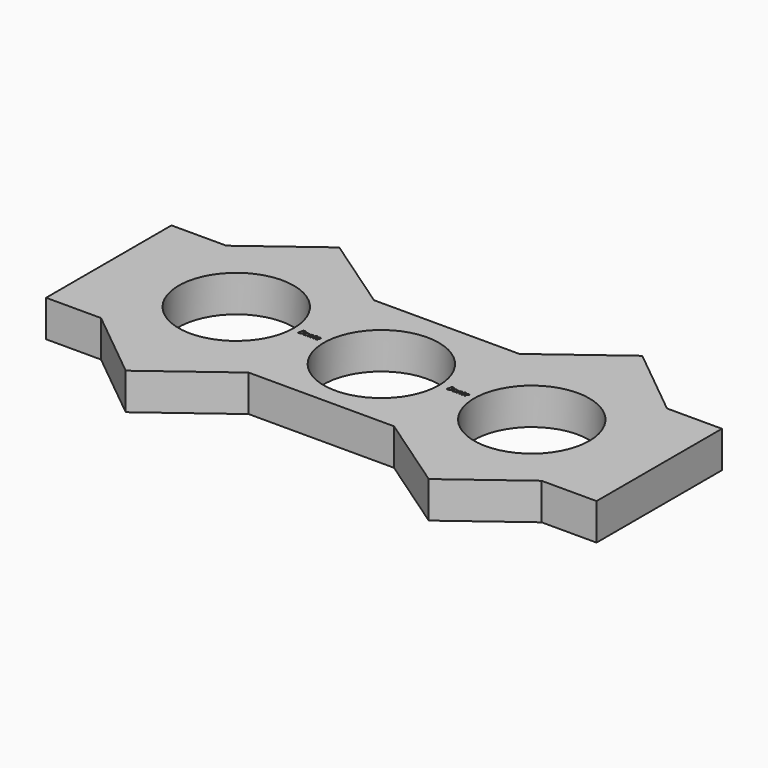
from build123d import *

# Parameters (mm, degrees)
F0_R     = 11.025
F1_DEPTH = 7


with BuildPart() as f1:
    # F0 (on Top) → F1 (new body)
    with BuildSketch(Plane.XY):
        Polygon((-64.4728094339, 23.716603741), (-74.9928504229, 23.716603741), (-74.9928504229, -6.283396259), (-64.4728094339, -6.283396259), (-50.9470440447, -17.2829199582), (-36.2189896405, -6.283396259), (-23.4113000333, -6.283396259), (-21.1903639138, -6.283396259), (-8.3826743066, -6.283396259), (6.3453800976, -16.3850005079), (19.8711454868, -6.283396259), (30.3911864758, -6.283396259), (30.3911864758, 23.716603741), (19.8711454868, 23.716603741), (6.3453800976, 34.7161274403), (-8.3826743066, 23.716603741), (-21.1903639138, 23.716603741), (-23.4113000333, 23.716603741), (-36.2189896405, 23.716603741), (-50.9470440447, 33.81820799), align=None)
        with Locations((-22.4508401006, 8.2657448947)):
            Circle(F0_R, mode=Mode.SUBTRACT)
        with BuildLine():
            add(Edge.make_bspline(
                [(-9.00669644, 8.9726211978), (-8.9013281797, 8.8627891762), (-8.9013281797, 8.6529923948)],
                knots=[0, 0, 0, 1, 1, 1], degree=2))
            add(Edge.make_bspline(
                [(-8.9013281797, 8.6529923948), (-8.9013281797, 8.4612855935), (-8.9785042634, 8.31445134)],
                knots=[0, 0, 0, 1, 1, 1], degree=2))
            add(Edge.make_bspline(
                [(-8.9785042634, 8.31445134), (-9.055680347, 8.1676170865), (-9.1987556436, 8.0883265896)],
                knots=[0, 0, 0, 1, 1, 1], degree=2))
            add(Edge.make_bspline(
                [(-9.1987556436, 8.0883265896), (-9.3418309402, 8.0090360927), (-9.534242546, 8.0090360927)],
                knots=[0, 0, 0, 1, 1, 1], degree=2))
            Line((-9.534242546, 8.0090360927), (-9.7926708321, 8.0090360927))
            Line((-9.7926708321, 8.0090360927), (-9.5659587447, 9.0824532195))
            Line((-9.5659587447, 9.0824532195), (-9.3148134376, 9.0824532195))
            add(Edge.make_bspline(
                [(-9.3148134376, 9.0824532195), (-9.1120647003, 9.0824532195), (-9.00669644, 8.9726211978)],
                knots=[0, 0, 0, 1, 1, 1], degree=2))
        make_face(mode=Mode.SUBTRACT)
        with BuildLine():
            add(Edge.make_bspline(
                [(-8.5863980728, 8.7542492961), (-8.4946560312, 8.8284886946), (-8.3851764118, 8.8284886946)],
                knots=[0, 0, 0, 1, 1, 1], degree=2))
            add(Edge.make_bspline(
                [(-8.3851764118, 8.8284886946), (-8.3177501226, 8.8284886946), (-8.2648897914, 8.7920737998)],
                knots=[0, 0, 0, 1, 1, 1], degree=2))
            add(Edge.make_bspline(
                [(-8.2648897914, 8.7920737998), (-8.2120294601, 8.7556589049), (-8.1826626094, 8.6875278113)],
                knots=[0, 0, 0, 1, 1, 1], degree=2))
            Line((-8.1826626094, 8.6875278113), (-8.1744398912, 8.6875278113))
            Line((-8.1744398912, 8.6875278113), (-8.1253385168, 8.8136878019))
            Line((-8.1253385168, 8.8136878019), (-8.032069399, 8.8136878019))
            Line((-8.032069399, 8.8136878019), (-8.2031019375, 8.0090360927))
            Line((-8.2031019375, 8.0090360927), (-8.3008348166, 8.0090360927))
            Line((-8.3008348166, 8.0090360927), (-8.2815701626, 8.1624485208))
            Line((-8.2815701626, 8.1624485208), (-8.2874435327, 8.1624485208))
            add(Edge.make_bspline(
                [(-8.2874435327, 8.1624485208), (-8.4190070238, 7.9942352), (-8.5644316685, 7.9942352)],
                knots=[0, 0, 0, 1, 1, 1], degree=2))
            add(Edge.make_bspline(
                [(-8.5644316685, 7.9942352), (-8.6663933741, 7.9942352), (-8.7244222711, 8.0669475223)],
                knots=[0, 0, 0, 1, 1, 1], degree=2))
            add(Edge.make_bspline(
                [(-8.7244222711, 8.0669475223), (-8.7824511681, 8.1396598446), (-8.7824511681, 8.26605477)],
                knots=[0, 0, 0, 1, 1, 1], degree=2))
            add(Edge.make_bspline(
                [(-8.7824511681, 8.26605477), (-8.7824511681, 8.4187623937), (-8.7302956412, 8.5493861456)],
                knots=[0, 0, 0, 1, 1, 1], degree=2))
            add(Edge.make_bspline(
                [(-8.7302956412, 8.5493861456), (-8.6781401144, 8.6800098975), (-8.5863980728, 8.7542492961)],
                knots=[0, 0, 0, 1, 1, 1], degree=2))
        make_face(mode=Mode.SUBTRACT)
        with BuildLine():
            Line((-7.3448850927, 8.0090360927), (-7.4696354744, 8.0090360927))
            Line((-7.4696354744, 8.0090360927), (-7.3608606595, 8.5172000772))
            add(Edge.make_bspline(
                [(-7.3608606595, 8.5172000772), (-7.3462947015, 8.593553889), (-7.3462947015, 8.6229207397)],
                knots=[0, 0, 0, 1, 1, 1], degree=2))
            add(Edge.make_bspline(
                [(-7.3462947015, 8.6229207397), (-7.3462947015, 8.6689679616), (-7.3723724649, 8.6969252035)],
                knots=[0, 0, 0, 1, 1, 1], degree=2))
            add(Edge.make_bspline(
                [(-7.3723724649, 8.6969252035), (-7.3984502283, 8.7248824454), (-7.4555393861, 8.7248824454)],
                knots=[0, 0, 0, 1, 1, 1], degree=2))
            add(Edge.make_bspline(
                [(-7.4555393861, 8.7248824454), (-7.5210861969, 8.7248824454), (-7.5831089855, 8.6808321693)],
                knots=[0, 0, 0, 1, 1, 1], degree=2))
            add(Edge.make_bspline(
                [(-7.5831089855, 8.6808321693), (-7.6451317742, 8.6367818933), (-7.6924711375, 8.5552595157)],
                knots=[0, 0, 0, 1, 1, 1], degree=2))
            add(Edge.make_bspline(
                [(-7.6924711375, 8.5552595157), (-7.7398105009, 8.4737371382), (-7.7640087858, 8.3576793442)],
                knots=[0, 0, 0, 1, 1, 1], degree=2))
            Line((-7.7640087858, 8.3576793442), (-7.8382481844, 8.0090360927))
            Line((-7.8382481844, 8.0090360927), (-7.9615889574, 8.0090360927))
            Line((-7.9615889574, 8.0090360927), (-7.7896166797, 8.8136878019))
            Line((-7.7896166797, 8.8136878019), (-7.687654974, 8.8136878019))
            Line((-7.687654974, 8.8136878019), (-7.7038654756, 8.6647391351))
            Line((-7.7038654756, 8.6647391351), (-7.6963475618, 8.6647391351))
            add(Edge.make_bspline(
                [(-7.6963475618, 8.6647391351), (-7.6258671202, 8.7542492961), (-7.560202842, 8.7913689953)],
                knots=[0, 0, 0, 1, 1, 1], degree=2))
            add(Edge.make_bspline(
                [(-7.560202842, 8.7913689953), (-7.4945385638, 8.8284886946), (-7.4240581222, 8.8284886946)],
                knots=[0, 0, 0, 1, 1, 1], degree=2))
            add(Edge.make_bspline(
                [(-7.4240581222, 8.8284886946), (-7.3307890043, 8.8284886946), (-7.2768714665, 8.7773903744)],
                knots=[0, 0, 0, 1, 1, 1], degree=2))
            add(Edge.make_bspline(
                [(-7.2768714665, 8.7773903744), (-7.2229539286, 8.7262920542), (-7.2229539286, 8.63466748)],
                knots=[0, 0, 0, 1, 1, 1], degree=2))
            add(Edge.make_bspline(
                [(-7.2229539286, 8.63466748), (-7.2229539286, 8.576638583), (-7.2398692346, 8.5023991845)],
                knots=[0, 0, 0, 1, 1, 1], degree=2))
            Line((-7.2398692346, 8.5023991845), (-7.3448850927, 8.0090360927))
        make_face(mode=Mode.SUBTRACT)
        with BuildLine():
            add(Edge.make_bspline(
                [(-6.906379278, 8.1169886359), (-6.8851176781, 8.0950222316), (-6.8470582396, 8.0950222316)],
                knots=[0, 0, 0, 1, 1, 1], degree=2))
            add(Edge.make_bspline(
                [(-6.8470582396, 8.0950222316), (-6.8066494531, 8.0950222316), (-6.7413375771, 8.1140519508)],
                knots=[0, 0, 0, 1, 1, 1], degree=2))
            Line((-6.7413375771, 8.1140519508), (-6.7413375771, 8.0193732242))
            add(Edge.make_bspline(
                [(-6.7413375771, 8.0193732242), (-6.7662406665, 8.0090360927), (-6.8028904962, 8.0016356463)],
                knots=[0, 0, 0, 1, 1, 1], degree=2))
            add(Edge.make_bspline(
                [(-6.8028904962, 8.0016356463), (-6.8395403258, 7.9942352), (-6.8616241976, 7.9942352)],
                knots=[0, 0, 0, 1, 1, 1], degree=2))
            add(Edge.make_bspline(
                [(-6.8616241976, 7.9942352), (-6.9534837066, 7.9942352), (-7.0022326787, 8.0379330738)],
                knots=[0, 0, 0, 1, 1, 1], degree=2))
            add(Edge.make_bspline(
                [(-7.0022326787, 8.0379330738), (-7.0509816509, 8.0816309476), (-7.0509816509, 8.1683218909)],
                knots=[0, 0, 0, 1, 1, 1], degree=2))
            add(Edge.make_bspline(
                [(-7.0509816509, 8.1683218909), (-7.0509816509, 8.2167184609), (-7.0378253018, 8.2785063147)],
                knots=[0, 0, 0, 1, 1, 1], degree=2))
            Line((-7.0378253018, 8.2785063147), (-6.9445561839, 8.720418684))
            Line((-6.9445561839, 8.720418684), (-7.0709511094, 8.720418684))
            Line((-7.0709511094, 8.720418684), (-7.0606139779, 8.7739838197))
            Line((-7.0606139779, 8.7739838197), (-6.9248216603, 8.8313079123))
            Line((-6.9248216603, 8.8313079123), (-6.8329621513, 8.9988164287))
            Line((-6.8329621513, 8.9988164287), (-6.7610721008, 8.9988164287))
            Line((-6.7610721008, 8.9988164287), (-6.8014808873, 8.8136878019))
            Line((-6.8014808873, 8.8136878019), (-6.6003766938, 8.8136878019))
            Line((-6.6003766938, 8.8136878019), (-6.619406413, 8.720418684))
            Line((-6.619406413, 8.720418684), (-6.8198058022, 8.720418684))
            Line((-6.8198058022, 8.720418684), (-6.9144845288, 8.2770967059))
            add(Edge.make_bspline(
                [(-6.9144845288, 8.2770967059), (-6.9276408779, 8.2131944388), (-6.9276408779, 8.1800686312)],
                knots=[0, 0, 0, 1, 1, 1], degree=2))
            add(Edge.make_bspline(
                [(-6.9276408779, 8.1800686312), (-6.9276408779, 8.1389550402), (-6.906379278, 8.1169886359)],
                knots=[0, 0, 0, 1, 1, 1], degree=2))
        make_face(mode=Mode.SUBTRACT)
        with BuildLine():
            add(Edge.make_bspline(
                [(-6.1716206735, 8.0071566143), (-6.2244810048, 7.9942352), (-6.2881483371, 7.9942352)],
                knots=[0, 0, 0, 1, 1, 1], degree=2))
            add(Edge.make_bspline(
                [(-6.2881483371, 7.9942352), (-6.4232358503, 7.9942352), (-6.500411934, 8.0743479687)],
                knots=[0, 0, 0, 1, 1, 1], degree=2))
            add(Edge.make_bspline(
                [(-6.500411934, 8.0743479687), (-6.5775880176, 8.1544607374), (-6.5775880176, 8.2961264251)],
                knots=[0, 0, 0, 1, 1, 1], degree=2))
            add(Edge.make_bspline(
                [(-6.5775880176, 8.2961264251), (-6.5775880176, 8.434033156), (-6.5228482079, 8.5607804836)],
                knots=[0, 0, 0, 1, 1, 1], degree=2))
            add(Edge.make_bspline(
                [(-6.5228482079, 8.5607804836), (-6.4681083982, 8.6875278113), (-6.3777759655, 8.7580082529)],
                knots=[0, 0, 0, 1, 1, 1], degree=2))
            add(Edge.make_bspline(
                [(-6.3777759655, 8.7580082529), (-6.2874435327, 8.8284886946), (-6.1789036525, 8.8284886946)],
                knots=[0, 0, 0, 1, 1, 1], degree=2))
            add(Edge.make_bspline(
                [(-6.1789036525, 8.8284886946), (-6.0666048155, 8.8284886946), (-6.0099855273, 8.7796222551)],
                knots=[0, 0, 0, 1, 1, 1], degree=2))
            add(Edge.make_bspline(
                [(-6.0099855273, 8.7796222551), (-5.9533662392, 8.7307558155), (-5.9533662392, 8.6433600678)],
                knots=[0, 0, 0, 1, 1, 1], degree=2))
            add(Edge.make_bspline(
                [(-5.9533662392, 8.6433600678), (-5.9533662392, 8.5113267071), (-6.0752974033, 8.4360301019)],
                knots=[0, 0, 0, 1, 1, 1], degree=2))
            add(Edge.make_bspline(
                [(-6.0752974033, 8.4360301019), (-6.1972285674, 8.3607334967), (-6.4241755896, 8.3607334967)],
                knots=[0, 0, 0, 1, 1, 1], degree=2))
            Line((-6.4241755896, 8.3607334967), (-6.4483738745, 8.3607334967))
            Line((-6.4483738745, 8.3607334967), (-6.4511930922, 8.3019997953))
            add(Edge.make_bspline(
                [(-6.4511930922, 8.3019997953), (-6.4511930922, 8.2059114598), (-6.4060856095, 8.1518764545)],
                knots=[0, 0, 0, 1, 1, 1], degree=2))
            add(Edge.make_bspline(
                [(-6.4060856095, 8.1518764545), (-6.3609781269, 8.0978414492), (-6.2662994002, 8.0978414492)],
                knots=[0, 0, 0, 1, 1, 1], degree=2))
            add(Edge.make_bspline(
                [(-6.2662994002, 8.0978414492), (-6.2200172435, 8.0978414492), (-6.1711508039, 8.1111152657)],
                knots=[0, 0, 0, 1, 1, 1], degree=2))
            add(Edge.make_bspline(
                [(-6.1711508039, 8.1111152657), (-6.1222843644, 8.1243890823), (-6.0496895094, 8.1596293031)],
                knots=[0, 0, 0, 1, 1, 1], degree=2))
            Line((-6.0496895094, 8.1596293031), (-6.0496895094, 8.0522640969))
            add(Edge.make_bspline(
                [(-6.0496895094, 8.0522640969), (-6.1187603423, 8.0200780286), (-6.1716206735, 8.0071566143)],
                knots=[0, 0, 0, 1, 1, 1], degree=2))
        make_face(mode=Mode.SUBTRACT)
        with Locations((6.3453800976, 8.2657448947)):
            Circle(F0_R, mode=Mode.SUBTRACT)
        with Locations((-50.9470440447, 9.1674625874)):
            Circle(F0_R, mode=Mode.SUBTRACT)
        with BuildLine():
            add(Edge.make_bspline(
                [(-37.7485013229, 9.3613235544), (-37.6431330626, 9.2514915328), (-37.6431330626, 9.0416947514)],
                knots=[0, 0, 0, 1, 1, 1], degree=2))
            add(Edge.make_bspline(
                [(-37.6431330626, 9.0416947514), (-37.6431330626, 8.84998795), (-37.7203091462, 8.7031536965)],
                knots=[0, 0, 0, 1, 1, 1], degree=2))
            add(Edge.make_bspline(
                [(-37.7203091462, 8.7031536965), (-37.7974852299, 8.556319443), (-37.9405605265, 8.4770289462)],
                knots=[0, 0, 0, 1, 1, 1], degree=2))
            add(Edge.make_bspline(
                [(-37.9405605265, 8.4770289462), (-38.0836358231, 8.3977384493), (-38.2760474289, 8.3977384493)],
                knots=[0, 0, 0, 1, 1, 1], degree=2))
            Line((-38.2760474289, 8.3977384493), (-38.534475715, 8.3977384493))
            Line((-38.534475715, 8.3977384493), (-38.3077636276, 9.471155576))
            Line((-38.3077636276, 9.471155576), (-38.0566183204, 9.471155576))
            add(Edge.make_bspline(
                [(-38.0566183204, 9.471155576), (-37.8538695832, 9.471155576), (-37.7485013229, 9.3613235544)],
                knots=[0, 0, 0, 1, 1, 1], degree=2))
        make_face(mode=Mode.SUBTRACT)
        with BuildLine():
            add(Edge.make_bspline(
                [(-37.3282029557, 9.1429516526), (-37.2364609141, 9.2171910512), (-37.1269812947, 9.2171910512)],
                knots=[0, 0, 0, 1, 1, 1], degree=2))
            add(Edge.make_bspline(
                [(-37.1269812947, 9.2171910512), (-37.0595550055, 9.2171910512), (-37.0066946743, 9.1807761563)],
                knots=[0, 0, 0, 1, 1, 1], degree=2))
            add(Edge.make_bspline(
                [(-37.0066946743, 9.1807761563), (-36.953834343, 9.1443612614), (-36.9244674923, 9.0762301678)],
                knots=[0, 0, 0, 1, 1, 1], degree=2))
            Line((-36.9244674923, 9.0762301678), (-36.9162447741, 9.0762301678))
            Line((-36.9162447741, 9.0762301678), (-36.8671433997, 9.2023901584))
            Line((-36.8671433997, 9.2023901584), (-36.7738742819, 9.2023901584))
            Line((-36.7738742819, 9.2023901584), (-36.9449068204, 8.3977384493))
            Line((-36.9449068204, 8.3977384493), (-37.0426396995, 8.3977384493))
            Line((-37.0426396995, 8.3977384493), (-37.0233750455, 8.5511508773))
            Line((-37.0233750455, 8.5511508773), (-37.0292484156, 8.5511508773))
            add(Edge.make_bspline(
                [(-37.0292484156, 8.5511508773), (-37.1608119067, 8.3829375565), (-37.3062365514, 8.3829375565)],
                knots=[0, 0, 0, 1, 1, 1], degree=2))
            add(Edge.make_bspline(
                [(-37.3062365514, 8.3829375565), (-37.408198257, 8.3829375565), (-37.466227154, 8.4556498789)],
                knots=[0, 0, 0, 1, 1, 1], degree=2))
            add(Edge.make_bspline(
                [(-37.466227154, 8.4556498789), (-37.524256051, 8.5283622012), (-37.524256051, 8.6547571266)],
                knots=[0, 0, 0, 1, 1, 1], degree=2))
            add(Edge.make_bspline(
                [(-37.524256051, 8.6547571266), (-37.524256051, 8.8074647502), (-37.4721005241, 8.9380885021)],
                knots=[0, 0, 0, 1, 1, 1], degree=2))
            add(Edge.make_bspline(
                [(-37.4721005241, 8.9380885021), (-37.4199449973, 9.068712254), (-37.3282029557, 9.1429516526)],
                knots=[0, 0, 0, 1, 1, 1], degree=2))
        make_face(mode=Mode.SUBTRACT)
        with BuildLine():
            Line((-36.0866899756, 8.3977384493), (-36.2114403573, 8.3977384493))
            Line((-36.2114403573, 8.3977384493), (-36.1026655423, 8.9059024338))
            add(Edge.make_bspline(
                [(-36.1026655423, 8.9059024338), (-36.0880995844, 8.9822562456), (-36.0880995844, 9.0116230963)],
                knots=[0, 0, 0, 1, 1, 1], degree=2))
            add(Edge.make_bspline(
                [(-36.0880995844, 9.0116230963), (-36.0880995844, 9.0576703182), (-36.1141773478, 9.08562756)],
                knots=[0, 0, 0, 1, 1, 1], degree=2))
            add(Edge.make_bspline(
                [(-36.1141773478, 9.08562756), (-36.1402551112, 9.1135848019), (-36.197344269, 9.1135848019)],
                knots=[0, 0, 0, 1, 1, 1], degree=2))
            add(Edge.make_bspline(
                [(-36.197344269, 9.1135848019), (-36.2628910798, 9.1135848019), (-36.3249138684, 9.0695345259)],
                knots=[0, 0, 0, 1, 1, 1], degree=2))
            add(Edge.make_bspline(
                [(-36.3249138684, 9.0695345259), (-36.3869366571, 9.0254842498), (-36.4342760204, 8.9439618723)],
                knots=[0, 0, 0, 1, 1, 1], degree=2))
            add(Edge.make_bspline(
                [(-36.4342760204, 8.9439618723), (-36.4816153838, 8.8624394947), (-36.5058136687, 8.7463817008)],
                knots=[0, 0, 0, 1, 1, 1], degree=2))
            Line((-36.5058136687, 8.7463817008), (-36.5800530673, 8.3977384493))
            Line((-36.5800530673, 8.3977384493), (-36.7033938402, 8.3977384493))
            Line((-36.7033938402, 8.3977384493), (-36.5314215625, 9.2023901584))
            Line((-36.5314215625, 9.2023901584), (-36.4294598569, 9.2023901584))
            Line((-36.4294598569, 9.2023901584), (-36.4456703585, 9.0534414917))
            Line((-36.4456703585, 9.0534414917), (-36.4381524447, 9.0534414917))
            add(Edge.make_bspline(
                [(-36.4381524447, 9.0534414917), (-36.367672003, 9.1429516526), (-36.3020077249, 9.1800713519)],
                knots=[0, 0, 0, 1, 1, 1], degree=2))
            add(Edge.make_bspline(
                [(-36.3020077249, 9.1800713519), (-36.2363434467, 9.2171910512), (-36.165863005, 9.2171910512)],
                knots=[0, 0, 0, 1, 1, 1], degree=2))
            add(Edge.make_bspline(
                [(-36.165863005, 9.2171910512), (-36.0725938872, 9.2171910512), (-36.0186763493, 9.166092731)],
                knots=[0, 0, 0, 1, 1, 1], degree=2))
            add(Edge.make_bspline(
                [(-36.0186763493, 9.166092731), (-35.9647588115, 9.1149944107), (-35.9647588115, 9.0233698366)],
                knots=[0, 0, 0, 1, 1, 1], degree=2))
            add(Edge.make_bspline(
                [(-35.9647588115, 9.0233698366), (-35.9647588115, 8.9653409396), (-35.9816741175, 8.891101541)],
                knots=[0, 0, 0, 1, 1, 1], degree=2))
            Line((-35.9816741175, 8.891101541), (-36.0866899756, 8.3977384493))
        make_face(mode=Mode.SUBTRACT)
        with BuildLine():
            add(Edge.make_bspline(
                [(-35.6481841609, 8.5056909924), (-35.626922561, 8.4837245881), (-35.5888631225, 8.4837245881)],
                knots=[0, 0, 0, 1, 1, 1], degree=2))
            add(Edge.make_bspline(
                [(-35.5888631225, 8.4837245881), (-35.5484543359, 8.4837245881), (-35.48314246, 8.5027543074)],
                knots=[0, 0, 0, 1, 1, 1], degree=2))
            Line((-35.48314246, 8.5027543074), (-35.48314246, 8.4080755807))
            add(Edge.make_bspline(
                [(-35.48314246, 8.4080755807), (-35.5080455494, 8.3977384493), (-35.5446953791, 8.3903380029)],
                knots=[0, 0, 0, 1, 1, 1], degree=2))
            add(Edge.make_bspline(
                [(-35.5446953791, 8.3903380029), (-35.5813452087, 8.3829375565), (-35.6034290805, 8.3829375565)],
                knots=[0, 0, 0, 1, 1, 1], degree=2))
            add(Edge.make_bspline(
                [(-35.6034290805, 8.3829375565), (-35.6952885894, 8.3829375565), (-35.7440375616, 8.4266354304)],
                knots=[0, 0, 0, 1, 1, 1], degree=2))
            add(Edge.make_bspline(
                [(-35.7440375616, 8.4266354304), (-35.7927865338, 8.4703333042), (-35.7927865338, 8.5570242475)],
                knots=[0, 0, 0, 1, 1, 1], degree=2))
            add(Edge.make_bspline(
                [(-35.7927865338, 8.5570242475), (-35.7927865338, 8.6054208174), (-35.7796301846, 8.6672086713)],
                knots=[0, 0, 0, 1, 1, 1], degree=2))
            Line((-35.7796301846, 8.6672086713), (-35.6863610668, 9.1091210406))
            Line((-35.6863610668, 9.1091210406), (-35.8127559922, 9.1091210406))
            Line((-35.8127559922, 9.1091210406), (-35.8024188608, 9.1626861763))
            Line((-35.8024188608, 9.1626861763), (-35.6666265432, 9.2200102688))
            Line((-35.6666265432, 9.2200102688), (-35.5747670342, 9.3875187852))
            Line((-35.5747670342, 9.3875187852), (-35.5028769837, 9.3875187852))
            Line((-35.5028769837, 9.3875187852), (-35.5432857702, 9.2023901584))
            Line((-35.5432857702, 9.2023901584), (-35.3421815766, 9.2023901584))
            Line((-35.3421815766, 9.2023901584), (-35.3612112959, 9.1091210406))
            Line((-35.3612112959, 9.1091210406), (-35.5616106851, 9.1091210406))
            Line((-35.5616106851, 9.1091210406), (-35.6562894117, 8.6657990625))
            add(Edge.make_bspline(
                [(-35.6562894117, 8.6657990625), (-35.6694457608, 8.6018967953), (-35.6694457608, 8.5687709877)],
                knots=[0, 0, 0, 1, 1, 1], degree=2))
            add(Edge.make_bspline(
                [(-35.6694457608, 8.5687709877), (-35.6694457608, 8.5276573968), (-35.6481841609, 8.5056909924)],
                knots=[0, 0, 0, 1, 1, 1], degree=2))
        make_face(mode=Mode.SUBTRACT)
        with BuildLine():
            add(Edge.make_bspline(
                [(-34.9134255564, 8.3958589708), (-34.9662858877, 8.3829375565), (-35.02995322, 8.3829375565)],
                knots=[0, 0, 0, 1, 1, 1], degree=2))
            add(Edge.make_bspline(
                [(-35.02995322, 8.3829375565), (-35.1650407332, 8.3829375565), (-35.2422168169, 8.4630503252)],
                knots=[0, 0, 0, 1, 1, 1], degree=2))
            add(Edge.make_bspline(
                [(-35.2422168169, 8.4630503252), (-35.3193929005, 8.5431630939), (-35.3193929005, 8.6848287817)],
                knots=[0, 0, 0, 1, 1, 1], degree=2))
            add(Edge.make_bspline(
                [(-35.3193929005, 8.6848287817), (-35.3193929005, 8.8227355126), (-35.2646530908, 8.9494828402)],
                knots=[0, 0, 0, 1, 1, 1], degree=2))
            add(Edge.make_bspline(
                [(-35.2646530908, 8.9494828402), (-35.2099132811, 9.0762301678), (-35.1195808483, 9.1467106095)],
                knots=[0, 0, 0, 1, 1, 1], degree=2))
            add(Edge.make_bspline(
                [(-35.1195808483, 9.1467106095), (-35.0292484156, 9.2171910512), (-34.9207085354, 9.2171910512)],
                knots=[0, 0, 0, 1, 1, 1], degree=2))
            add(Edge.make_bspline(
                [(-34.9207085354, 9.2171910512), (-34.8084096983, 9.2171910512), (-34.7517904102, 9.1683246116)],
                knots=[0, 0, 0, 1, 1, 1], degree=2))
            add(Edge.make_bspline(
                [(-34.7517904102, 9.1683246116), (-34.695171122, 9.1194581721), (-34.695171122, 9.0320624244)],
                knots=[0, 0, 0, 1, 1, 1], degree=2))
            add(Edge.make_bspline(
                [(-34.695171122, 9.0320624244), (-34.695171122, 8.9000290636), (-34.8171022861, 8.8247324584)],
                knots=[0, 0, 0, 1, 1, 1], degree=2))
            add(Edge.make_bspline(
                [(-34.8171022861, 8.8247324584), (-34.9390334502, 8.7494358532), (-35.1659804724, 8.7494358532)],
                knots=[0, 0, 0, 1, 1, 1], degree=2))
            Line((-35.1659804724, 8.7494358532), (-35.1901787574, 8.7494358532))
            Line((-35.1901787574, 8.7494358532), (-35.1929979751, 8.6907021518))
            add(Edge.make_bspline(
                [(-35.1929979751, 8.6907021518), (-35.1929979751, 8.5946138164), (-35.1478904924, 8.5405788111)],
                knots=[0, 0, 0, 1, 1, 1], degree=2))
            add(Edge.make_bspline(
                [(-35.1478904924, 8.5405788111), (-35.1027830097, 8.4865438058), (-35.0081042831, 8.4865438058)],
                knots=[0, 0, 0, 1, 1, 1], degree=2))
            add(Edge.make_bspline(
                [(-35.0081042831, 8.4865438058), (-34.9618221264, 8.4865438058), (-34.9129556868, 8.4998176223)],
                knots=[0, 0, 0, 1, 1, 1], degree=2))
            add(Edge.make_bspline(
                [(-34.9129556868, 8.4998176223), (-34.8640892473, 8.5130914388), (-34.7914943923, 8.5483316597)],
                knots=[0, 0, 0, 1, 1, 1], degree=2))
            Line((-34.7914943923, 8.5483316597), (-34.7914943923, 8.4409664535))
            add(Edge.make_bspline(
                [(-34.7914943923, 8.4409664535), (-34.8605652252, 8.4087803851), (-34.9134255564, 8.3958589708)],
                knots=[0, 0, 0, 1, 1, 1], degree=2))
        make_face(mode=Mode.SUBTRACT)
    extrude(amount=F1_DEPTH)


solid = f1.part
